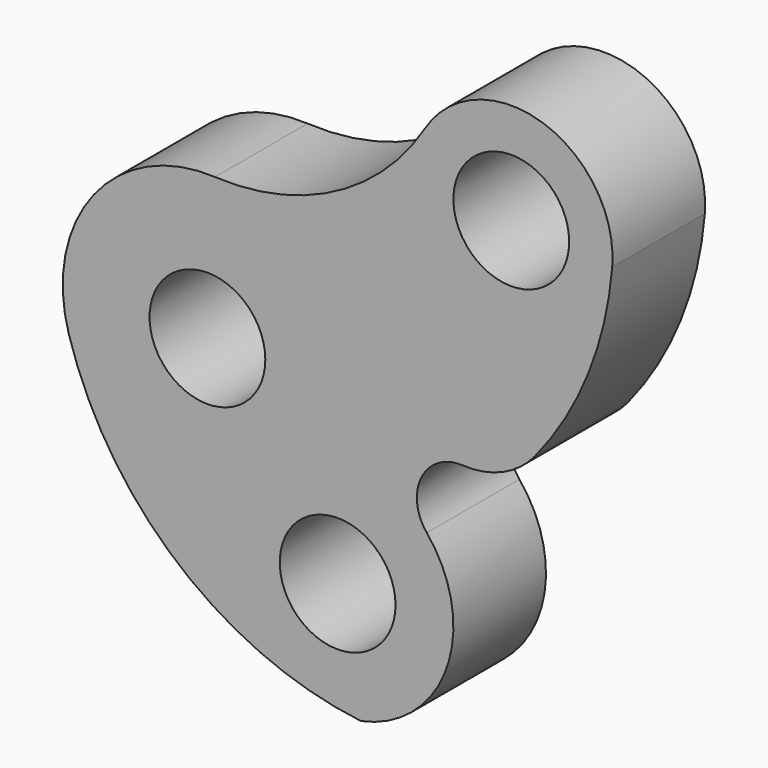
from build123d import *

# Parameters (mm, degrees)
F0_R     = 10
F1_DEPTH = 20


with BuildPart() as f1:
    # F0 (on Front) → F1 (new body)
    with BuildSketch(Plane.XZ):
        with BuildLine():
            ThreePointArc((37.554206, 44.103474), (22.067235, 29.538399), (1.304766, 24.965929))
            ThreePointArc((1.304766, 24.965929), (-19.647756, 15.458515), (-23.957871, -7.142857))
            ThreePointArc((-23.957871, -7.142857), (-11.587381, -29.540201), (8.989835, -44.747049))
            ThreePointArc((8.989835, -44.747049), (17.576496, -47.837133), (26.532468, -49.589262))
            ThreePointArc((26.532468, -49.589262), (41.367793, -36.63373), (37.904534, -17.244596))
            ThreePointArc((37.904534, -17.244596), (36.990811, -9.071889), (44.120823, -4.974213))
            ThreePointArc((44.120823, -4.974213), (51.030762, -3.734261), (56.619703, 0.514089))
            ThreePointArc((56.619703, 0.514089), (65.792763, 16.032989), (69.941986, 33.576228))
            ThreePointArc((69.941986, 33.576228), (57.909572, 51.642912), (37.554206, 44.103474))
        make_face()
        Circle(F0_R, mode=Mode.SUBTRACT)
        with Locations((22.5, -30)):
            Circle(F0_R, mode=Mode.SUBTRACT)
        with Locations((52.5, 35)):
            Circle(F0_R, mode=Mode.SUBTRACT)
    extrude(amount=F1_DEPTH)


solid = f1.part
